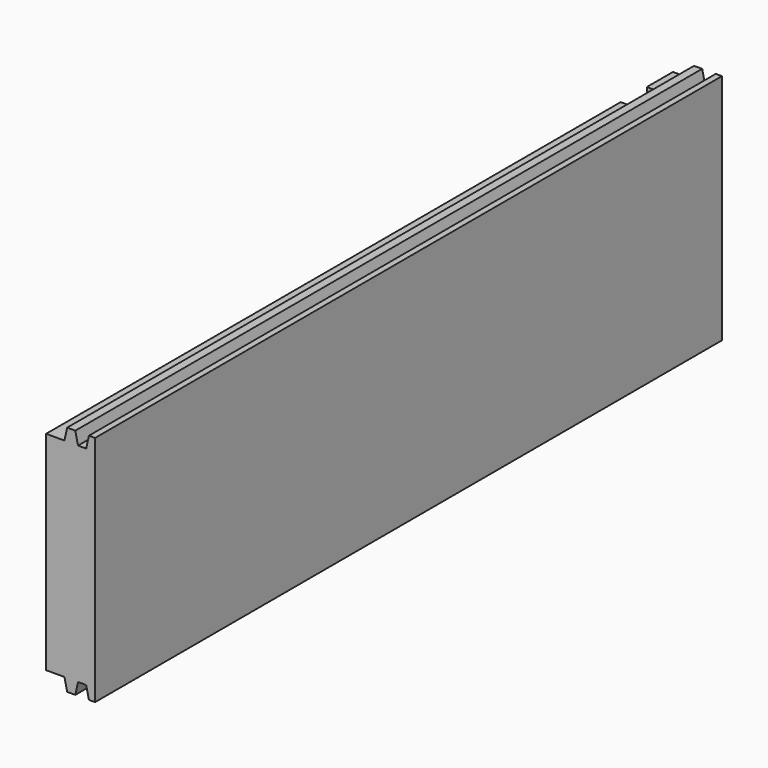
from build123d import *

# Parameters (mm, degrees)
F0_W     = 19.05
F0_H     = 90.4875
F1_DEPTH = 304.8
F3_W     = 12.7
F3_H     = 101.6
F4_DEPTH = 12.7
F6_DEPTH = 304.8
F8_DEPTH = 304.8


with BuildPart() as f1:
    # F0 (on Front) → F1 (new body)
    with BuildSketch(Plane.XZ):
        with Locations((9.525, 45.24375)):
            Rectangle(F0_W, F0_H)
    extrude(amount=F1_DEPTH)

    # F3 (on offset) → F4 (cut)
    with BuildSketch(Plane.XZ.offset(25.4)):
        with Locations((-1.8542, 50.8)):
            Rectangle(F3_W, F3_H)
    extrude(amount=-F4_DEPTH, mode=Mode.SUBTRACT)

    # F5 (on Front) → F6 (cut)
    with BuildSketch(Plane.XZ):
        Polygon((-2.3876, -5.089026), (26.1874, -5.089026), (26.1874, 0), (16.6624, 0), (15.604067, 4.7625), (12.429067, 4.7625), (11.370733, 0), (8.195733, 0), (7.1374, 4.7625), (-2.3876, 4.7625), align=None)
    extrude(amount=F6_DEPTH, mode=Mode.SUBTRACT)

    # F7 (on Front) → F8 (cut)
    with BuildSketch(Plane.XZ):
        Polygon((26.1874, 90.4875), (26.1874, 95.576526), (-2.3876, 95.576526), (-2.3876, 85.725), (7.1374, 85.725), (8.195733, 90.4875), (11.370733, 90.4875), (12.429067, 85.725), (15.604067, 85.725), (16.6624, 90.4875), align=None)
    extrude(amount=F8_DEPTH, mode=Mode.SUBTRACT)


solid = f1.part
